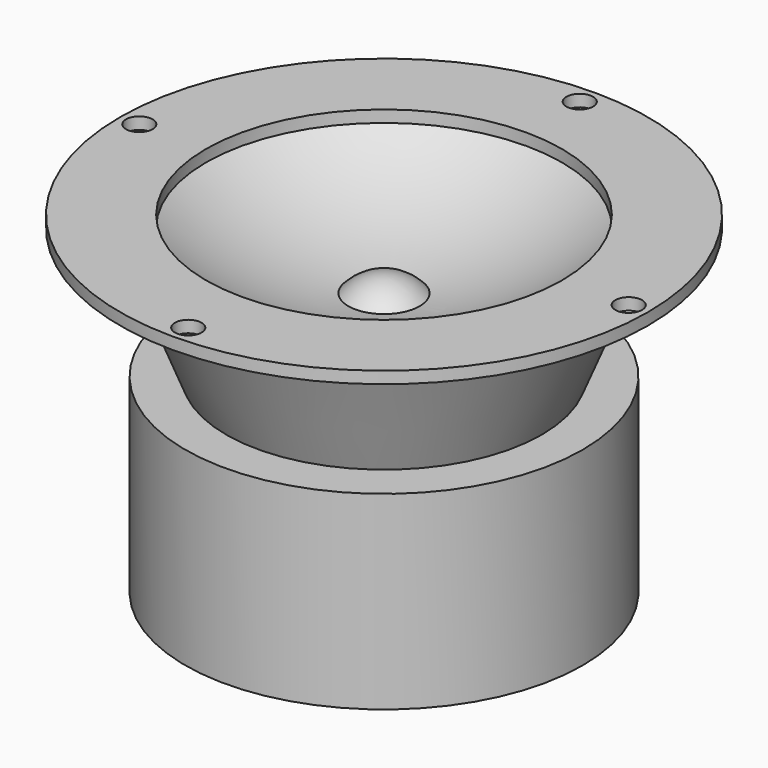
from build123d import *

# Parameters (mm, degrees)
F0_R     = 44.5
F0_R_2   = 2.25
F1_DEPTH = 2
F2_R     = 35.5
F3_DEPTH = 22
F3_TAPER = 22
F4_R     = 33.5
F4_R_2   = 26.6114230316
F5_DEPTH = 32


with BuildPart() as f1:
    # F0 (on Top) → F1 (new body)
    with BuildSketch(Plane.XY):
        Circle(F0_R)
        with Locations((0, -41.25)):
            Circle(F0_R_2, mode=Mode.SUBTRACT)
        with Locations((-41.25, 0)):
            Circle(F0_R_2, mode=Mode.SUBTRACT)
        with Locations((41.25, 0)):
            Circle(F0_R_2, mode=Mode.SUBTRACT)
        with Locations((0, 41.25)):
            Circle(F0_R_2, mode=Mode.SUBTRACT)
    extrude(amount=F1_DEPTH)

    # F2 (on face) → F3 (join)
    with BuildSketch(Plane(origin=(0, 0, 0), x_dir=(1, 0, 0), z_dir=(0, 0, -1))):
        Circle(F2_R)
    extrude(amount=F3_DEPTH, taper=F3_TAPER)

    # F4 (on face) → F5 (join)
    with BuildSketch(Plane(origin=(0, 0, -22), x_dir=(1, 0, 0), z_dir=(0, 0, -1))):
        Circle(F4_R)
        Circle(F4_R_2, mode=Mode.SUBTRACT)
        Circle(F4_R_2)
    extrude(amount=F5_DEPTH)

    # F6 (on Front) → F7 (revolve, cut)
    with BuildSketch(Plane.XZ):
        with BuildLine():
            Line((0, 0), (0, -6.9301972061))
            ThreePointArc((0, -6.9301972061), (3.2915026221, -7.638694584), (6, -9.638694584))
            ThreePointArc((6, -9.638694584), (18.6340040872, -6.3979944791), (30, 0))
            Line((30, 0), (30, 3))
            Line((30, 3), (0, 3))
            Line((0, 3), (0, 0))
        make_face()
    revolve(axis=Axis((0, 0, -5), (0, 0, -1)), mode=Mode.SUBTRACT)


solid = f1.part
